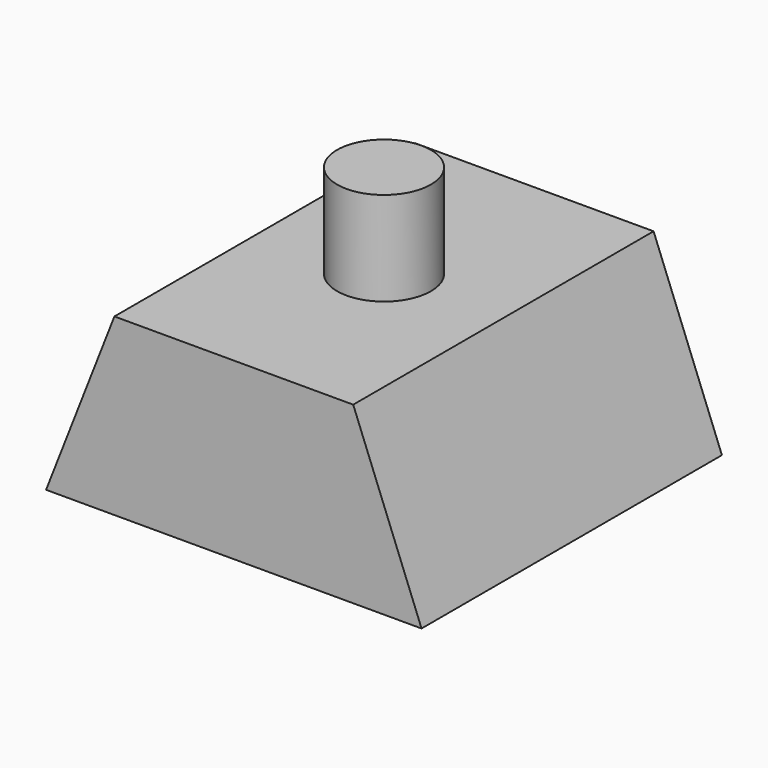
from build123d import *

# Parameters (mm, degrees)
F1_DEPTH = 20
F2_R     = 2.5
F3_DEPTH = 5


with BuildPart() as f1:
    # F0 (on Front) → F1 (new body)
    with BuildSketch(Plane.XZ):
        Polygon((6.36, 0), (0, 0), (-6.36, 0), (-10, -9.313989), (0, -9.313989), (10, -9.313989), align=None)
    extrude(amount=F1_DEPTH)

    # F2 (on Top) → F3 (join)
    with BuildSketch(Plane.XY):
        with Locations((0, -10)):
            Circle(F2_R)
    extrude(amount=F3_DEPTH)


solid = f1.part
